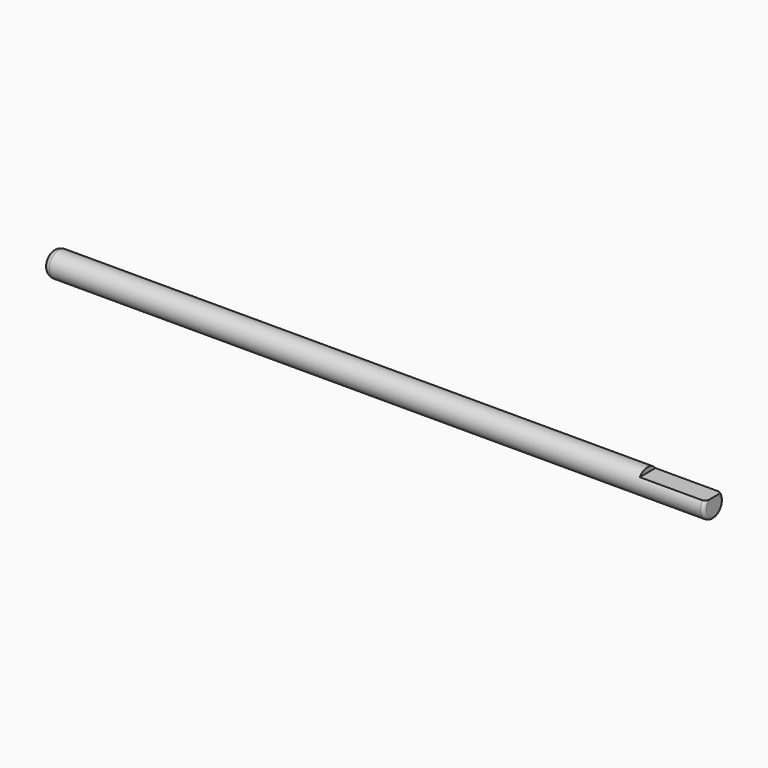
from build123d import *

# Parameters (mm, degrees)
F0_W     = 254
F0_H     = 4.7625
F3_DEPTH = 25.4
F4_R     = 2.54
F5_R     = 1.27


with BuildPart() as f1:
    # F0 (on Front) → F1 (revolve)
    with BuildSketch(Plane.XZ):
        with Locations((25.4, 2.38125)):
            Rectangle(F0_W, F0_H)
    revolve(axis=Axis((25.4, 0, 0), (1, 0, 0)))

    # F2 (on face) → F3 (cut)
    with BuildSketch(Plane.YZ.offset(152.4)):
        with BuildLine():
            ThreePointArc((3.781125, 2.8956), (0, 4.7625), (-3.781125, 2.8956))
            Line((-3.781125, 2.8956), (3.781125, 2.8956))
        make_face()
    extrude(amount=-F3_DEPTH, mode=Mode.SUBTRACT)

    # F4
    f4_edges = [f1.edges().sort_by_distance(p)[0] for p in [
        (-101.6, 0, -4.7625),
    ]]
    fillet(f4_edges, radius=F4_R)

    # F5
    f5_edges = [f1.edges().sort_by_distance(p)[0] for p in [
        (152.4, 0, -4.7625),
    ]]
    fillet(f5_edges, radius=F5_R)


solid = f1.part
